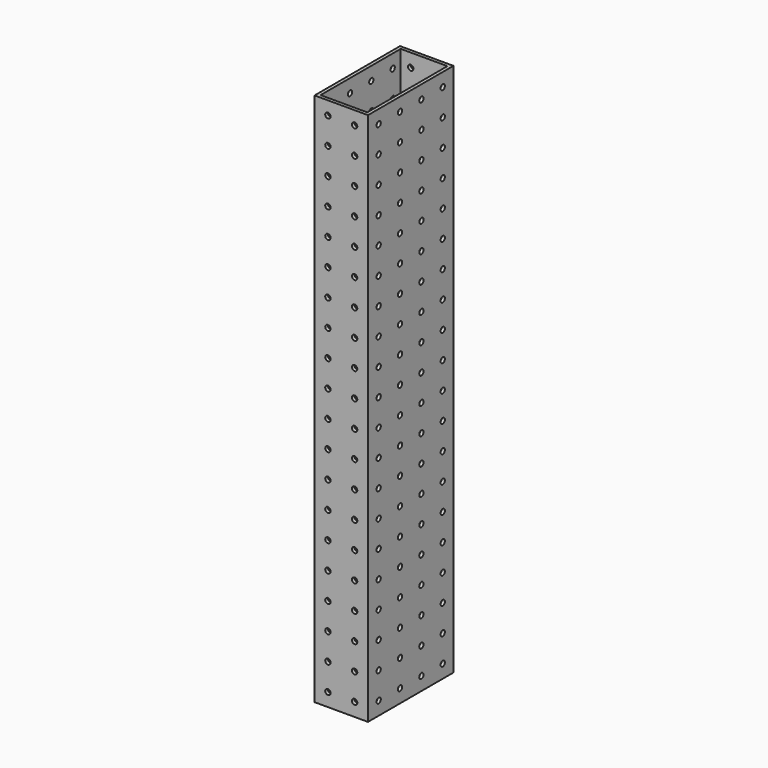
from build123d import *

# Parameters (mm, degrees)
F0_W     = 50.8
F0_H     = 101.6
F1_DEPTH = 508
F2_W     = 44.45
F2_H     = 95.25
F3_DEPTH = 508
F5_D     = 5.1054
F7_D     = 5.1054


with BuildPart() as f1:
    # F0 (on Top) → F1 (new body)
    with BuildSketch(Plane.XY):
        with Locations((8.595673, 23.252034)):
            Rectangle(F0_W, F0_H)
    extrude(amount=F1_DEPTH)

    # F2 (on face) → F3 (cut)
    with BuildSketch(Plane.XY.offset(508)):
        with Locations((8.595673, 23.252034)):
            Rectangle(F2_W, F2_H)
    extrude(amount=-F3_DEPTH, mode=Mode.SUBTRACT)

    # F5 (through all)
    with Locations(Plane.YZ.offset(33.995673)):
        with Locations((35.952034, 114.3), (61.352034, 12.7), (-14.847966, 317.5), (10.552034, 215.9), (-14.847966, 495.3), (10.552034, 393.7), (35.952034, 292.1), (61.352034, 190.5), (-14.847966, 88.9), (-14.847966, 292.1), (10.552034, 190.5), (-14.847966, 469.9), (10.552034, 368.3), (35.952034, 266.7), (61.352034, 165.1), (-14.847966, 63.5), (35.952034, 88.9), (-14.847966, 444.5), (10.552034, 342.9), (35.952034, 241.3), (61.352034, 139.7), (-14.847966, 38.1), (35.952034, 63.5), (35.952034, 469.9), (-14.847966, 266.7), (10.552034, 165.1), (-14.847966, 419.1), (10.552034, 317.5), (35.952034, 215.9), (61.352034, 114.3), (-14.847966, 12.7), (35.952034, 38.1), (35.952034, 444.5), (-14.847966, 241.3), (10.552034, 139.7), (10.552034, 63.5), (-14.847966, 393.7), (10.552034, 292.1), (10.552034, 469.9), (35.952034, 368.3), (35.952034, 190.5), (61.352034, 88.9), (-14.847966, 165.1), (35.952034, 12.7), (35.952034, 419.1), (-14.847966, 215.9), (10.552034, 114.3), (10.552034, 38.1), (-14.847966, 368.3), (10.552034, 444.5), (10.552034, 266.7), (35.952034, 342.9), (35.952034, 165.1), (61.352034, 63.5), (-14.847966, 139.7), (10.552034, 495.3), (35.952034, 393.7), (61.352034, 266.7), (61.352034, 241.3), (-14.847966, 190.5), (10.552034, 88.9), (61.352034, 215.9), (35.952034, 495.3), (61.352034, 495.3), (-14.847966, 342.9), (10.552034, 12.7), (10.552034, 241.3), (10.552034, 419.1), (35.952034, 317.5), (35.952034, 139.7), (61.352034, 38.1), (61.352034, 469.9), (-14.847966, 114.3), (61.352034, 444.5), (61.352034, 419.1), (61.352034, 393.7), (61.352034, 368.3), (61.352034, 342.9), (61.352034, 317.5), (61.352034, 292.1)):
            Hole(F5_D / 2)

    # F7 (through all)
    with Locations(Plane(origin=(0, 74.052034, 0), x_dir=(-1, 0, 0), z_dir=(0, 1, 0))):
        with Locations((-21.295673, 215.9), (-21.295673, 241.3), (-21.295673, 114.3), (4.104327, 215.9), (4.104327, 444.5), (4.104327, 38.1), (-21.295673, 266.7), (-21.295673, 292.1), (-21.295673, 317.5), (-21.295673, 444.5), (-21.295673, 469.9), (-21.295673, 393.7), (-21.295673, 419.1), (-21.295673, 342.9), (-21.295673, 368.3), (-21.295673, 139.7), (4.104327, 241.3), (4.104327, 469.9), (4.104327, 63.5), (-21.295673, 495.3), (-21.295673, 38.1), (4.104327, 317.5), (4.104327, 139.7), (-21.295673, 63.5), (4.104327, 342.9), (4.104327, 165.1), (-21.295673, 165.1), (4.104327, 266.7), (4.104327, 393.7), (4.104327, 495.3), (4.104327, 88.9), (-21.295673, 88.9), (4.104327, 368.3), (4.104327, 190.5), (-21.295673, 190.5), (4.104327, 292.1), (4.104327, 419.1), (4.104327, 12.7), (-21.295673, 12.7), (4.104327, 114.3)):
            Hole(F7_D / 2)


solid = f1.part
